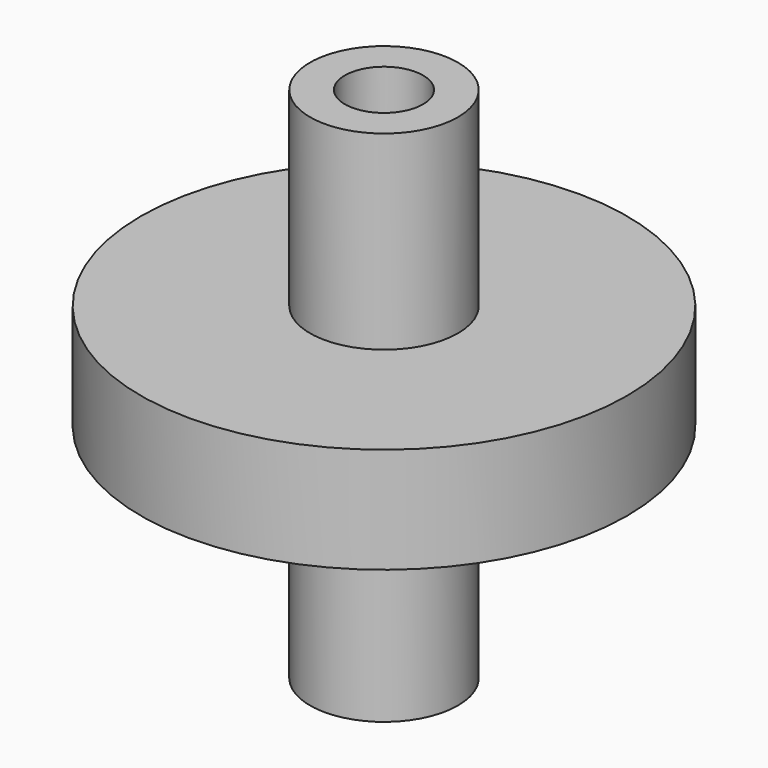
from build123d import *

# Parameters (mm, degrees)
F0_W     = 20.32
F0_H     = 12.7
F2_R     = 4.699
F3_DEPTH = 9.525
F4_R     = 1.5875
F5_DEPTH = 12.7


with BuildPart() as f1:
    # F0 (on Front) → F1 (revolve)
    with BuildSketch(Plane.XZ):
        Polygon((0, 62.23), (0, 0), (8.89, 0), (8.89, 26.67), (8.89, 39.37), (8.89, 62.23), align=None)
        with Locations((19.05, 33.02)):
            Rectangle(F0_W, F0_H)
    revolve(axis=Axis((0, 0, 31.115), (0, 0, -1)))

    # F2 (on face) → F3 (cut)
    with BuildSketch(Plane.XY.offset(62.23)):
        Circle(F2_R)
    extrude(amount=-F3_DEPTH, mode=Mode.SUBTRACT)

    # F4 (on face) → F5 (cut)
    with BuildSketch(Plane(origin=(0, 0, 0), x_dir=(1, 0, 0), z_dir=(0, 0, -1))):
        Circle(F4_R)
    extrude(amount=-F5_DEPTH, mode=Mode.SUBTRACT)


solid = f1.part
